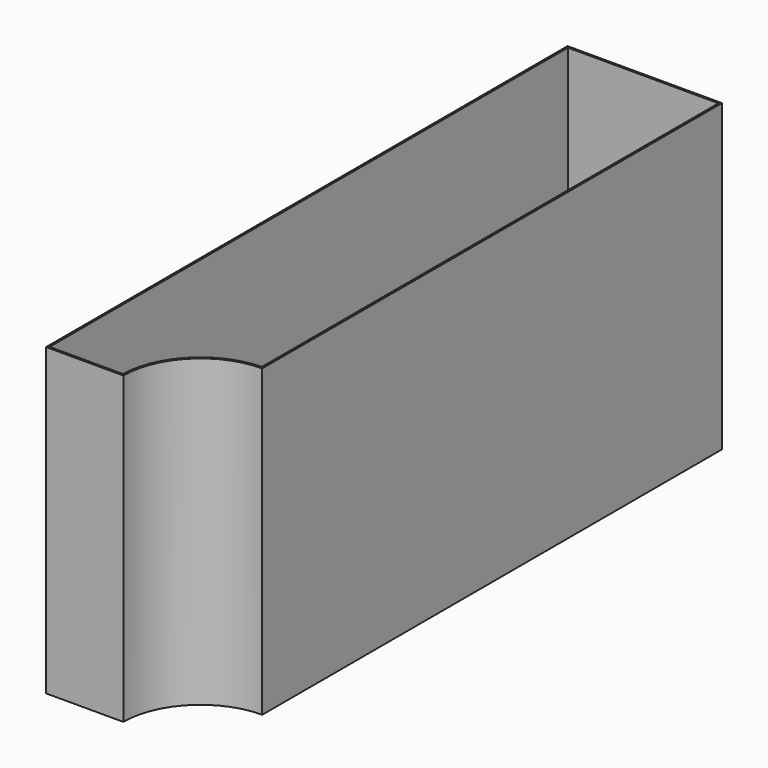
from build123d import *

# Parameters (mm, degrees)
F1_DEPTH = 80
F2_T     = -0.5


with BuildPart() as f1:
    # F0 (on Top) → F1 (new body)
    with BuildSketch(Plane.XY):
        with BuildLine():
            Line((21.224073, 122.275924), (-19.275927, 122.275924))
            Line((-19.275927, 122.275924), (-19.275927, -48.724076))
            Line((-19.275927, -48.724076), (0.974073, -48.724076))
            ThreePointArc((0.974073, -48.724076), (6.905161, -34.405164), (21.224073, -28.474076))
            Line((21.224073, -28.474076), (21.224073, 122.275924))
        make_face()
    extrude(amount=F1_DEPTH)

    # F2
    f2_openings = [f1.faces().sort_by_distance(p)[0] for p in [
        (0.405606, 40.52676, 80),
    ]]
    offset(amount=F2_T, openings=f2_openings)


solid = f1.part
